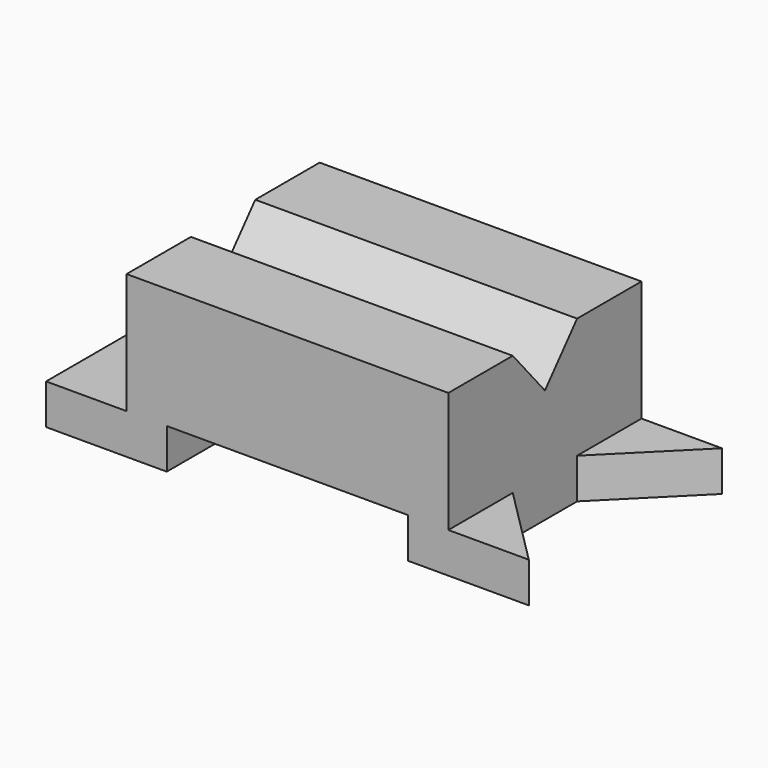
from build123d import *

# Parameters (mm, degrees)
F1_DEPTH = 76.2
F3_DEPTH = 152.4
F5_DEPTH = 12.7


with BuildPart() as f1:
    # F0 (on Front) → F1 (new body)
    with BuildSketch(Plane.XZ):
        Polygon((0, 12.7), (0, 0), (38.1, 0), (38.1, 12.7), (114.3, 12.7), (114.3, 0), (127, 0), (127, 50.8), (25.4, 50.8), (25.4, 12.7), align=None)
    extrude(amount=F1_DEPTH)

    # F2 (on face) → F3 (cut)
    with BuildSketch(Plane(origin=(25.4, 0, 0), x_dir=(0, -1, 0), z_dir=(-1, 0, 0))):
        Polygon((50.8, 50.8), (25.4, 50.8), (38.1, 35.975717), align=None)
    extrude(amount=-F3_DEPTH, mode=Mode.SUBTRACT)

    # F4 (on face) → F5 (join)
    with BuildSketch(Plane(origin=(0, 0, 0), x_dir=(1, 0, 0), z_dir=(0, 0, -1))):
        Polygon((152.4, 76.2), (127, 76.2), (127, 50.8), align=None)
        Polygon((127, 25.4), (127, 0), (152.4, 0), align=None)
    extrude(amount=-F5_DEPTH)


solid = f1.part
